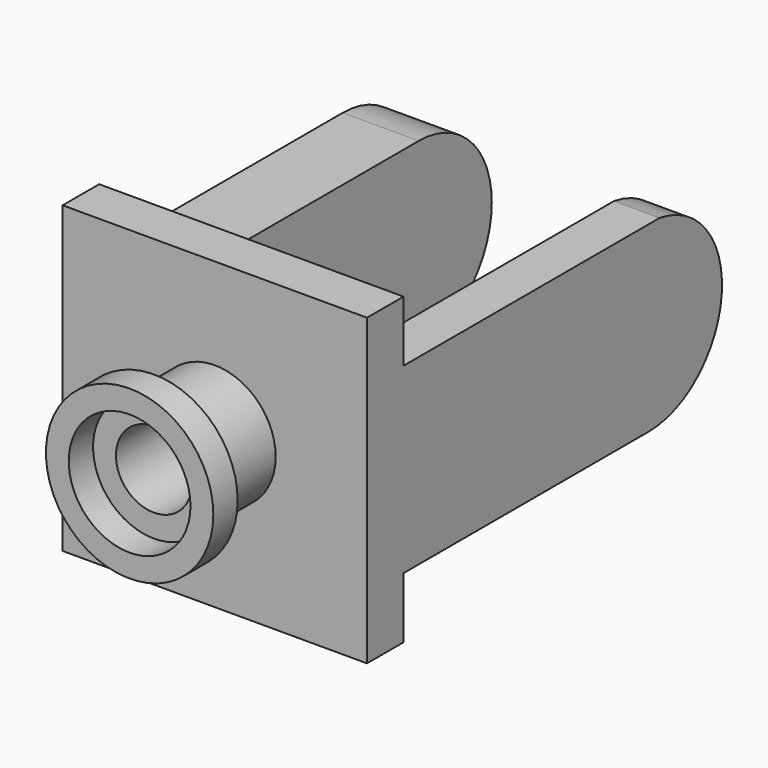
from build123d import *

# Parameters (mm, degrees)
F0_W     = 100
F0_H     = 100
F0_R     = 20
F1_DEPTH = 15
F0_R_2   = 12.5
F2_DEPTH = 40
F3_R     = 27.5
F3_R_2   = 20
F4_DEPTH = 10
F6_DEPTH = 15
F8_DEPTH = 25


with BuildPart() as f1:
    # F0 (on Front) → F1 (new body)
    with BuildSketch(Plane.XZ):
        with Locations((50, 50)):
            Rectangle(F0_W, F0_H)
        with Locations((50, 50)):
            Circle(F0_R, mode=Mode.SUBTRACT)
    extrude(amount=F1_DEPTH)

    # F0 (on Front) → F2 (join)
    with BuildSketch(Plane.XZ):
        with Locations((50, 50)):
            Circle(F0_R)
        with Locations((50, 50)):
            Circle(F0_R_2, mode=Mode.SUBTRACT)
    extrude(amount=F2_DEPTH)

    # F3 (on face) → F4 (join)
    with BuildSketch(Plane.XZ.offset(40)):
        with Locations((50, 50)):
            Circle(F3_R)
        with Locations((50, 50)):
            Circle(F3_R_2, mode=Mode.SUBTRACT)
    extrude(amount=F4_DEPTH)

    # F5 (on face) → F6 (join)
    with BuildSketch(Plane.YZ.offset(100)):
        with BuildLine():
            Line((105.164453, 80), (0, 80))
            Line((0, 80), (0, 20))
            Line((0, 20), (100.652225, 20))
            ThreePointArc((100.652225, 20), (130.73694, 47.907183), (105.164453, 80))
        make_face()
    extrude(amount=-F6_DEPTH)

    # F7 (on face) → F8 (join)
    with BuildSketch(Plane(origin=(0, 0, 0), x_dir=(0, -1, 0), z_dir=(-1, 0, 0))):
        with BuildLine():
            Line((0, 20), (0, 80))
            Line((0, 80), (-100, 80))
            ThreePointArc((-100, 80), (-130, 50), (-100, 20))
            Line((-100, 20), (0, 20))
        make_face()
    extrude(amount=-F8_DEPTH)


solid = f1.part
